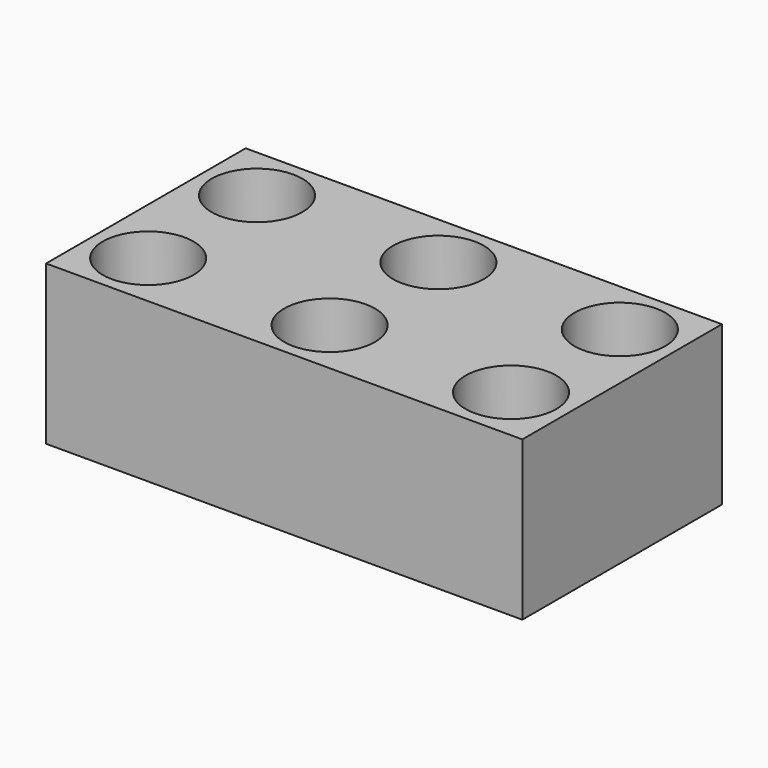
from build123d import *

# Parameters (mm, degrees)
SKETCH175_R      = 1
EXTRUDE034_DEPTH = 4
SKETCH174_R      = 1
EXTRUDE035_DEPTH = 4
SKETCH173_R      = 1
EXTRUDE033_DEPTH = 4
SKETCH172_W      = 10.5
SKETCH172_H      = 5.5
EXTRUDE032_DEPTH = 3.5


with BuildPart() as extrude034:
    # Sketch175 → Extrude034 (new body)
    with BuildSketch(Plane(origin=(8.25, 0.25, 0), x_dir=(1, 0, 0), z_dir=(0, 0, 1))):
        with Locations((1, 1)):
            Circle(SKETCH175_R)
        with Locations((1, 4)):
            Circle(SKETCH175_R)
    extrude(amount=EXTRUDE034_DEPTH)


with BuildPart() as extrude035:
    # Sketch174 → Extrude035 (new body)
    with BuildSketch(Plane(origin=(4.25, 0.25, 0), x_dir=(1, 0, 0), z_dir=(0, 0, 1))):
        with Locations((1, 1)):
            Circle(SKETCH174_R)
        with Locations((1, 4)):
            Circle(SKETCH174_R)
    extrude(amount=EXTRUDE035_DEPTH)


with BuildPart() as fusion013:
    # Sketch173 → Extrude033 (new body)
    with BuildSketch(Plane(origin=(0.25, 0.25, 0), x_dir=(1, 0, 0), z_dir=(0, 0, 1))):
        with Locations((1, 1)):
            Circle(SKETCH173_R)
        with Locations((1, 4)):
            Circle(SKETCH173_R)
    extrude(amount=EXTRUDE033_DEPTH)

    # Fusion013: union Extrude034, Extrude035
    add(extrude034.part)
    add(extrude035.part)


with BuildPart() as cut023:
    # Sketch172 → Extrude032 (new body)
    with BuildSketch(Plane.XY):
        with Locations((5.25, 2.75)):
            Rectangle(SKETCH172_W, SKETCH172_H)
    extrude(amount=EXTRUDE032_DEPTH)

    # Cut023: cut Fusion013
    add(fusion013.part, mode=Mode.SUBTRACT)


solid = cut023.part
